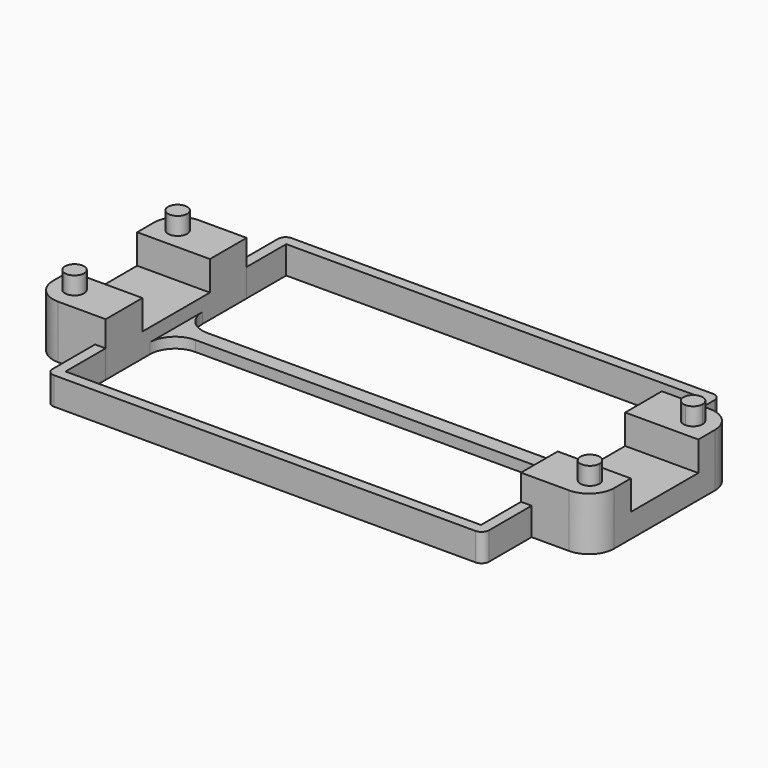
from build123d import *

# Parameters (mm, degrees)
F0_R     = 1.9
F1_DEPTH = 14.1
F2_DEPTH = 2.1
F3_DEPTH = 10.6
F4_W     = 16.752516
F4_H     = 7.375009
F5_DEPTH = 150
F6_R     = 5
F7_W     = 76.531014
F7_H     = 2.1
F8_DEPTH = 5.5
F9_R     = 1.5


with BuildPart() as f1:
    # F0 (on Top) → F1 (new body)
    with BuildSketch(Plane.XY):
        with BuildLine():
            ThreePointArc((104.3, 0), (101.056497, 1.343503), (102.4, -1.9))
            ThreePointArc((102.4, -1.9), (103.743503, -1.343503), (104.3, 0))
        make_face()
        with BuildLine():
            ThreePointArc((102.4, -23.7), (101.056497, -26.943503), (104.3, -25.6))
            ThreePointArc((104.3, -25.6), (103.743503, -24.256497), (102.4, -23.7))
        make_face()
        with Locations((0, -25.6)):
            Circle(F0_R)
        Circle(F0_R)
    extrude(amount=F1_DEPTH)



with BuildPart() as f2:
    # F0 (on Top) → F2 (new body)
    with BuildSketch(Plane.XY):
        with BuildLine():
            Line((9.95, -14.3), (9.95, -19.3))
            ThreePointArc((9.95, -19.3), (11.414466, -15.764466), (14.95, -14.3))
            Line((14.95, -14.3), (51.2, -14.3))
            Line((51.2, -14.3), (51.2, -11.3))
            Line((51.2, -11.3), (14.95, -11.3))
            ThreePointArc((14.95, -11.3), (11.414466, -9.835534), (9.95, -6.3))
            Line((9.95, -6.3), (9.95, -11.3))
            Line((9.95, -11.3), (9.95, -14.3))
        make_face()
        with BuildLine():
            Line((51.2, -11.3), (51.2, -14.3))
            Line((51.2, -14.3), (67.3, -14.3))
            Line((67.3, -14.3), (72.3, -14.3))
            Line((72.3, -14.3), (87.45, -14.3))
            ThreePointArc((87.45, -14.3), (90.985534, -15.764466), (92.45, -19.3))
            Line((92.45, -19.3), (92.45, -6.3))
            ThreePointArc((92.45, -6.3), (90.985534, -9.835534), (87.45, -11.3))
            Line((87.45, -11.3), (72.3, -11.3))
            Line((72.3, -11.3), (67.3, -11.3))
            Line((67.3, -11.3), (51.2, -11.3))
        make_face()
    extrude(amount=F2_DEPTH)


with BuildPart() as f1_1:
    add(f1.part)

    add(f2.part)  # F3 merges F2
    # F0 (on Top) → F3 (join)
    with BuildSketch(Plane.XY):
        Polygon((-4.5, -30.3), (4.5, -30.3), (4.579243, -30.3), (9.95, -30.3), (9.95, -19.3), (9.95, -14.3), (9.95, -11.3), (9.95, -6.3), (9.95, 4.7), (4.579243, 4.7), (4.5, 4.7), (-4.5, 4.7), align=None)
        with Locations((0, -25.6)):
            Circle(F0_R, mode=Mode.SUBTRACT)
        Circle(F0_R, mode=Mode.SUBTRACT)
        Polygon((92.45, -6.3), (92.45, -19.3), (92.45, -30.3), (97.820757, -30.3), (106.979243, -30.3), (106.979243, 4.7), (97.820757, 4.7), (92.45, 4.7), align=None)
        with BuildLine():
            ThreePointArc((102.4, -23.7), (103.743503, -24.256497), (104.3, -25.6))
            ThreePointArc((104.3, -25.6), (101.056497, -26.943503), (102.4, -23.7))
        make_face(mode=Mode.SUBTRACT)
        with BuildLine():
            ThreePointArc((104.3, 0), (103.743503, -1.343503), (102.4, -1.9))
            ThreePointArc((102.4, -1.9), (101.056497, 1.343503), (104.3, 0))
        make_face(mode=Mode.SUBTRACT)
    extrude(amount=F3_DEPTH)

    # F4 (on Right) → F5 (cut, symmetric)
    with BuildSketch(Plane.YZ):
        with Locations((-12.796251, 8.42476)):
            Rectangle(F4_W, F4_H)
    extrude(amount=F5_DEPTH, both=True, mode=Mode.SUBTRACT)

    # F6
    f6_edges = [f1_1.edges().sort_by_distance(p)[0] for p in [
        (-4.5, 4.7, 5.3),
        (-4.5, -30.3, 5.3),
        (106.979243, 4.7, 5.3),
        (106.979243, -30.3, 5.3),
    ]]
    fillet(f6_edges, radius=F6_R)

    # F7 (on Top) → F8 (join)
    with BuildSketch(Plane.XY):
        Polygon((9.934493, 4.12971), (9.934493, 4.738468), (9.934493, 14.546), (12.934493, 14.546), (12.934493, 16.646), (7.834493, 16.646), (7.834493, 9.642234), (7.834493, 4.738468), (7.834493, 4.12971), align=None)
        with Locations((51.2, 15.596)):
            Rectangle(F7_W, F7_H)
        Polygon((89.465507, 16.646), (89.465507, 14.546), (92.465507, 14.546), (92.465507, 4.738468), (92.465507, 4.379703), (94.565507, 4.379703), (94.565507, 4.738468), (94.565507, 9.642234), (94.565507, 16.646), align=None)
        with Locations((51.2, -41.303271)):
            Rectangle(F7_W, F7_H)
        Polygon((12.934493, -42.353271), (12.934493, -40.253271), (9.934493, -40.253271), (9.934493, -30.445739), (9.934493, -29.831897), (7.834493, -29.831897), (7.834493, -30.445739), (7.834493, -35.349505), (7.834493, -42.353271), align=None)
        Polygon((92.465507, -40.253271), (89.465507, -40.253271), (89.465507, -42.353271), (94.565507, -42.353271), (94.565507, -35.349505), (94.565507, -30.445739), (94.565507, -29.955346), (92.465507, -29.955346), (92.465507, -30.445739), align=None)
    extrude(amount=F8_DEPTH)

    # F9
    f9_edges = [f1_1.edges().sort_by_distance(p)[0] for p in [
        (94.565507, -42.353271, 2.75),
        (94.565507, 16.646, 2.75),
        (7.834493, 16.646, 2.75),
        (7.834493, -42.353271, 2.75),
    ]]
    fillet(f9_edges, radius=F9_R)


solid = f1_1.part
